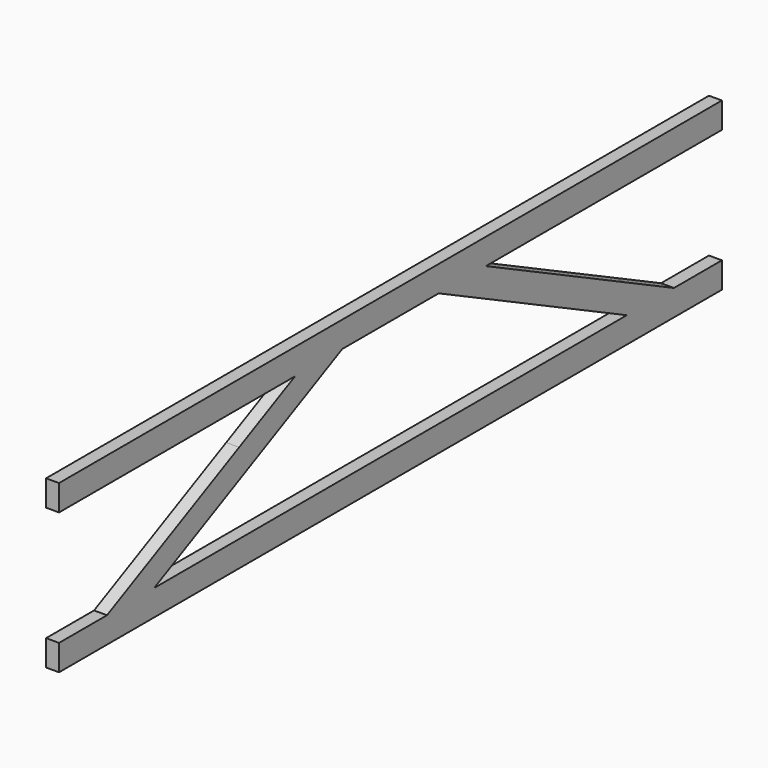
from build123d import *

# Parameters (mm, degrees)
F1_DEPTH = 25.4


with BuildPart() as f1:
    # F0 (on Right) → F1 (new body)
    with BuildSketch(Plane.YZ):
        Polygon((812.8, 112.629811), (812.8, 163.429811), (-812.8, 163.429811), (-812.8, 112.629811), (-579.4375, 112.629811), (-234.009025, 112.629811), (-118.2624, 112.629811), (118.2624, 112.629811), (234.009025, 112.629811), (579.4375, 112.629811), align=None)
        Polygon((-118.2624, 112.629811), (-234.009025, 112.629811), (-371.145546, 45.64588), (-695.184125, -112.629811), (-579.4375, -112.629811), align=None)
        Polygon((579.4375, -56.093712), (234.009025, 112.629811), (118.2624, 112.629811), (579.4375, -112.629811), (695.184125, -112.629811), align=None)
        Polygon((695.184125, -112.629811), (579.4375, -112.629811), (118.2624, -112.629811), (-118.2624, -112.629811), (-579.4375, -112.629811), (-695.184125, -112.629811), (-812.8, -112.629811), (-812.8, -163.429811), (812.8, -163.429811), (812.8, -112.629811), align=None)
    extrude(amount=F1_DEPTH)


solid = f1.part
